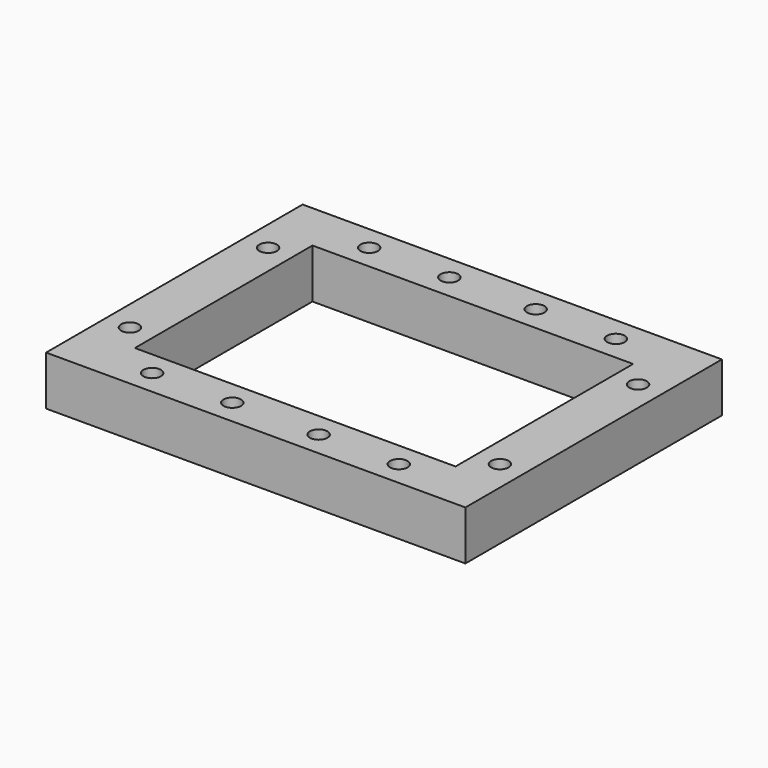
from build123d import *

# Parameters (mm, degrees)
F0_W     = 3.175
F0_H     = 3.175
F1_DEPTH = 6.35
F2_W     = 41.275
F2_H     = 28.575
F3_DEPTH = 6.35
F4_D     = 2.2606
F5_D     = 2.2606
F6_D     = 2.2606
F7_D     = 2.2606
F8_D     = 2.2606
F9_D     = 2.2606
F10_D    = 2.2606
F11_D    = 2.2606
F12_D    = 2.2606
F13_D    = 2.2606
F14_D    = 2.2606
F15_D    = 2.2606


with BuildPart() as f1:
    # F0 (on Top) → F1 (new body)
    with BuildSketch(Plane.XY):
        with Locations((1.5875, 1.5875)):
            Rectangle(F0_W, F0_H)
        Polygon((3.175, 3.175), (3.175, 0), (50.8, 0), (50.8, 3.175), (53.975, 3.175), (53.975, 38.1), (50.8, 38.1), (50.8, 41.275), (3.175, 41.275), (3.175, 38.1), (0, 38.1), (0, 3.175), align=None)
        with Locations((52.3875, 1.5875)):
            Rectangle(F0_W, F0_H)
        with Locations((1.5875, 39.6875)):
            Rectangle(F0_W, F0_H)
        with Locations((52.3875, 39.6875)):
            Rectangle(F0_W, F0_H)
    extrude(amount=F1_DEPTH)

    # F2 (on face) → F3 (cut, through all)
    with BuildSketch(Plane(origin=(0, 0, 0), x_dir=(1, 0, 0), z_dir=(0, 0, -1))):
        with Locations((26.9875, -20.6375)):
            Rectangle(F2_W, F2_H)
    extrude(amount=-F3_DEPTH, mode=Mode.SUBTRACT)

    # F4 (through all)
    with Locations(Plane(origin=(0, 0, 0), x_dir=(1, 0, 0), z_dir=(0, 0, -1))):
        with Locations((11.1125, -3.175)):
            Hole(F4_D / 2)

    # F5 (through all)
    with Locations(Plane(origin=(0, 0, 0), x_dir=(1, 0, 0), z_dir=(0, 0, -1))):
        with Locations((21.43125, -3.175)):
            Hole(F5_D / 2)

    # F6 (through all)
    with Locations(Plane(origin=(0, 0, 0), x_dir=(1, 0, 0), z_dir=(0, 0, -1))):
        with Locations((32.54375, -3.175)):
            Hole(F6_D / 2)

    # F7 (through all)
    with Locations(Plane(origin=(0, 0, 0), x_dir=(1, 0, 0), z_dir=(0, 0, -1))):
        with Locations((42.8625, -3.175)):
            Hole(F7_D / 2)

    # F8 (through all)
    with Locations(Plane(origin=(0, 0, 0), x_dir=(1, 0, 0), z_dir=(0, 0, -1))):
        with Locations((11.1125, -38.1)):
            Hole(F8_D / 2)

    # F9 (through all)
    with Locations(Plane(origin=(0, 0, 0), x_dir=(1, 0, 0), z_dir=(0, 0, -1))):
        with Locations((21.43125, -38.1)):
            Hole(F9_D / 2)

    # F10 (through all)
    with Locations(Plane(origin=(0, 0, 0), x_dir=(1, 0, 0), z_dir=(0, 0, -1))):
        with Locations((32.54375, -38.1)):
            Hole(F10_D / 2)

    # F11 (through all)
    with Locations(Plane(origin=(0, 0, 0), x_dir=(1, 0, 0), z_dir=(0, 0, -1))):
        with Locations((42.8625, -38.1)):
            Hole(F11_D / 2)

    # F12 (through all)
    with Locations(Plane(origin=(0, 0, 0), x_dir=(1, 0, 0), z_dir=(0, 0, -1))):
        with Locations((3.175, -9.525)):
            Hole(F12_D / 2)

    # F13 (through all)
    with Locations(Plane(origin=(0, 0, 0), x_dir=(1, 0, 0), z_dir=(0, 0, -1))):
        with Locations((3.175, -31.75)):
            Hole(F13_D / 2)

    # F14 (through all)
    with Locations(Plane(origin=(0, 0, 0), x_dir=(1, 0, 0), z_dir=(0, 0, -1))):
        with Locations((50.8, -9.525)):
            Hole(F14_D / 2)

    # F15 (through all)
    with Locations(Plane(origin=(0, 0, 0), x_dir=(1, 0, 0), z_dir=(0, 0, -1))):
        with Locations((50.8, -31.75)):
            Hole(F15_D / 2)


solid = f1.part
